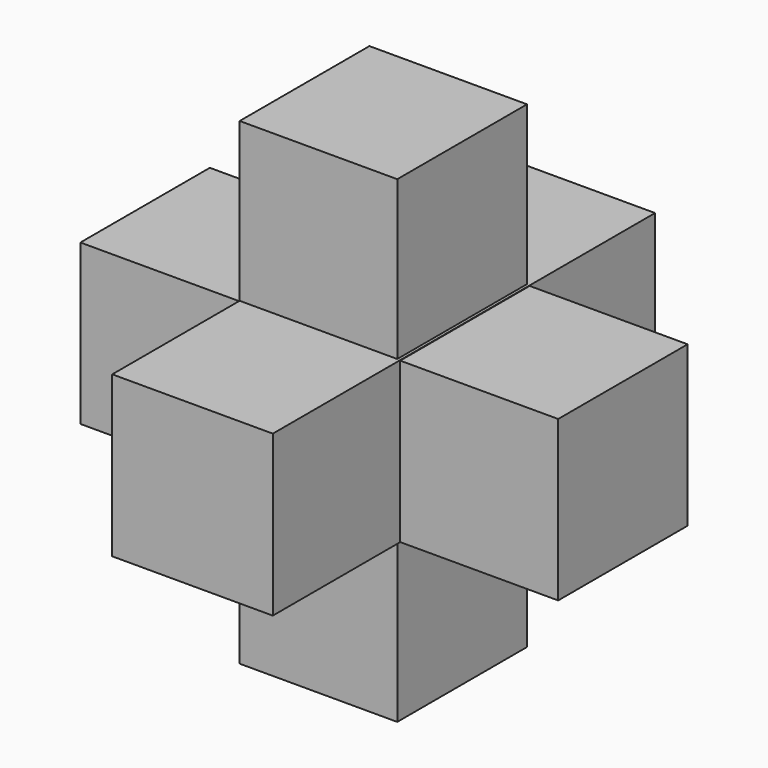
from build123d import *

# Parameters (mm, degrees)
F0_W          = 25.2043232322
F0_H          = 25.1512657851
F1_DEPTH      = 50
F1_DEPTH_BACK = 25
F2_W          = 24.7411523014
F2_H          = 25.458579883
F3_DEPTH      = 25
F3_DEPTH_BACK = 50
F4_W          = 25.3962129354
F4_H          = 25.0760298222
F5_DEPTH      = 25
F5_DEPTH_BACK = 50


with BuildPart() as f1:
    # F0 (on Front) → F1 (new body, two sides)
    with BuildSketch(Plane.XZ) as f1_sk:
        with Locations((12.6021616161, 12.5756328925)):
            Rectangle(F0_W, F0_H)
    extrude(amount=-F1_DEPTH)
    extrude(f1_sk.sketch, amount=F1_DEPTH_BACK)

    # F2 (on Top) → F3 (join, two sides)
    with BuildSketch(Plane.XY) as f3_sk:
        with Locations((12.3705761507, 12.7292899415)):
            Rectangle(F2_W, F2_H)
    extrude(amount=-F3_DEPTH)
    extrude(f3_sk.sketch, amount=F3_DEPTH_BACK)

    # F4 (on Right) → F5 (join, two sides)
    with BuildSketch(Plane.YZ) as f5_sk:
        with Locations((12.6981064677, 12.5380149111)):
            Rectangle(F4_W, F4_H)
    extrude(amount=-F5_DEPTH)
    extrude(f5_sk.sketch, amount=F5_DEPTH_BACK)


solid = f1.part
